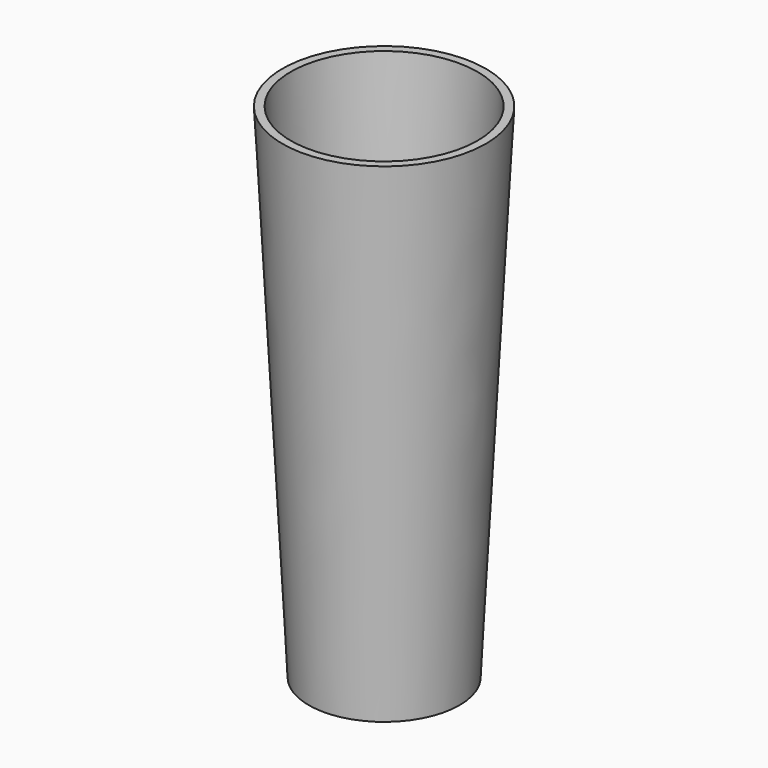
from build123d import *

# Parameters (mm, degrees)
F0_R     = 22.5
F1_DEPTH = 150
F1_TAPER = -3
F2_T     = -2.5
F3_R     = 1.75
F4_DEPTH = 6
F4_TAPER = 5


with BuildPart() as f1:
    # F0 (on Top) → F1 (new body)
    with BuildSketch(Plane.XY):
        Circle(F0_R)
    extrude(amount=F1_DEPTH, taper=F1_TAPER)

    # F2
    f2_openings = [f1.faces().sort_by_distance(p)[0] for p in [
        (0, 0, 150),
    ]]
    offset(amount=F2_T, openings=f2_openings, kind=Kind.INTERSECTION)

    # F3 (on Top) → F4 (join)
    with BuildSketch(Plane.XY):
        Circle(F3_R)
    extrude(amount=-F4_DEPTH, taper=F4_TAPER)


solid = f1.part
